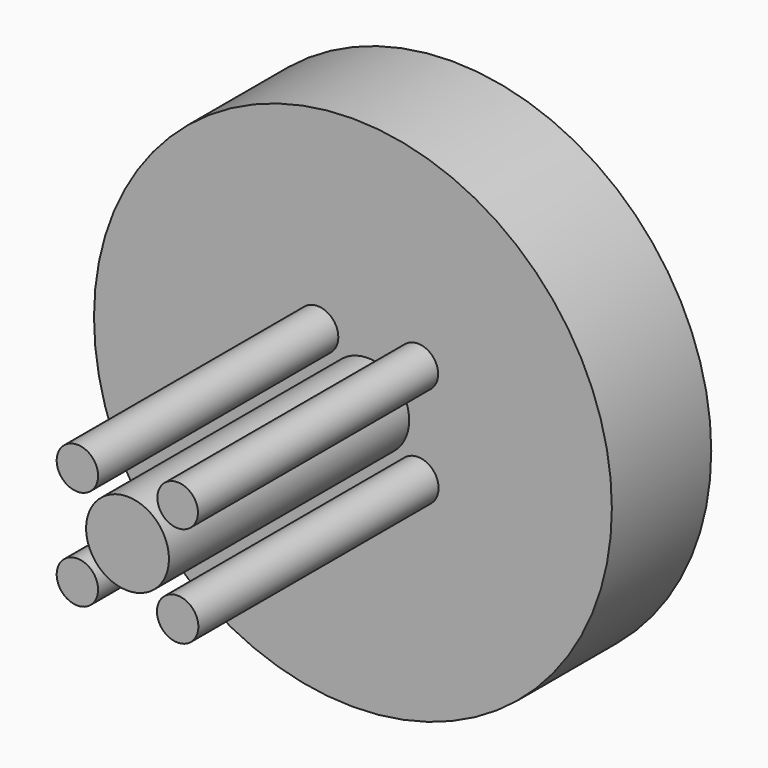
from build123d import *

# Parameters (mm, degrees)
F0_R     = 12.504289
F1_DEPTH = 6
F2_R     = 1
F2_R_2   = 0.978426
F2_R_3   = 2
F4_DEPTH = 25


with BuildPart() as f1:
    # F0 (on Front) → F1 (new body)
    with BuildSketch(Plane.XZ):
        with Locations((-13.58404, 22.957029)):
            Circle(F0_R)
    extrude(amount=F1_DEPTH)


with BuildPart() as f1_1:
    # F3: moved
    add(f1.part.moved(Location((12.8, -4.5, -23.5))))

    # F2 (on Front) → F4 (join)
    with BuildSketch(Plane.XZ):
        with Locations((-2.489394, 2.438227)):
            Circle(F2_R)
        with Locations((2.351993, 2.438227)):
            Circle(F2_R_2)
        with Locations((-2.489394, -2.40316)):
            Circle(F2_R)
        with Locations((2.351993, -2.40316)):
            Circle(F2_R)
        with Locations((-0.0687, 0.017533)):
            Circle(F2_R_3)
    extrude(amount=F4_DEPTH)


solid = f1_1.part
